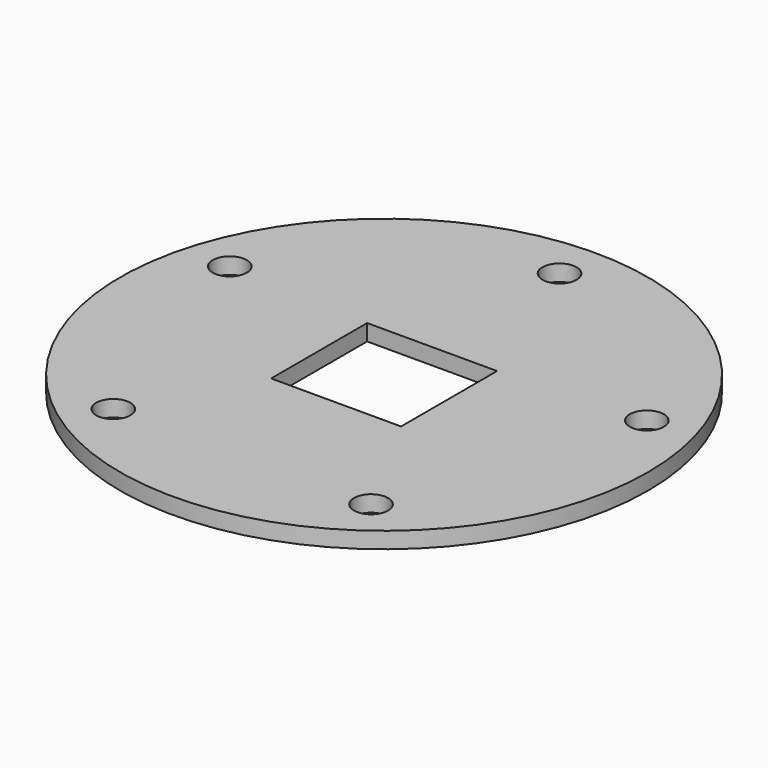
from build123d import *

# Parameters (mm, degrees)
F0_R     = 32.5
F0_W     = 16
F0_H     = 14.778278
F1_DEPTH = 2
F2_R     = 2.1
F3_DEPTH = 2.001


with BuildPart() as f1:
    # F0 (on Top) → F1 (new body)
    with BuildSketch(Plane.XY):
        Circle(F0_R)
        Rectangle(F0_W, F0_H, mode=Mode.SUBTRACT)
    extrude(amount=F1_DEPTH)

    # F2 (on face) → F3 (cut, through all)
    with BuildSketch(Plane.XY.offset(2)):
        with Locations((0, 27)):
            Circle(F2_R)
        with Locations((-25.678526, 8.343459)):
            Circle(F2_R)
        with Locations((-15.870202, -21.843459)):
            Circle(F2_R)
        with Locations((15.870202, -21.843459)):
            Circle(F2_R)
        with Locations((25.678526, 8.343459)):
            Circle(F2_R)
    extrude(amount=-F3_DEPTH, mode=Mode.SUBTRACT)


solid = f1.part
